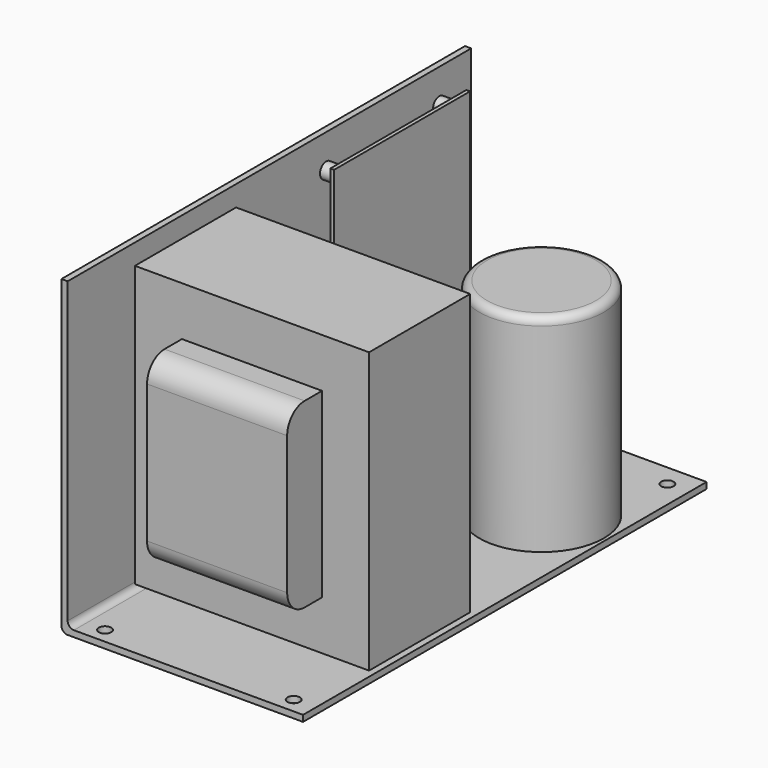
from build123d import *

# Parameters (mm, degrees)
F1_DEPTH      = 205.74
F3_D          = 5.08
F4_R          = 2.54
F5_W          = 51.562
F5_H          = 114.3
F6_DEPTH      = 95.504
F7_W          = 57.15
F7_H          = 74.168
F8_DEPTH      = 17.78
F8_DEPTH_BACK = 68.58
F9_R          = 25.4
F10_DEPTH     = 84.328
F11_R         = 3.175
F12_R         = 8.89
F13_R         = 3.175
F14_DEPTH     = 6.35
F15_W         = 69.342
F15_H         = 93.98
F16_DEPTH     = 1.524


with BuildPart() as f1:
    # F0 (on Front) → F1 (new body)
    with BuildSketch(Plane.XZ):
        Polygon((0, 127), (0, 0), (98.552, 0), (98.552, 2.54), (2.54, 2.54), (2.54, 127), align=None)
    extrude(amount=F1_DEPTH)

    # F3 (through all)
    with Locations(Plane(origin=(0, 0, 0), x_dir=(1, 0, 0), z_dir=(0, 0, -1))):
        with Locations((12.7, 199.39), (89.662, 199.39), (89.662, 8.89), (12.7, 8.89)):
            Hole(F3_D / 2)

    # F4
    f4_edges = [f1.edges().sort_by_distance(p)[0] for p in [
        (0, -102.87, 0),
        (2.54, -102.87, 2.54),
    ]]
    fillet(f4_edges, radius=F4_R)

    # F5 (on face) → F6 (join)
    with BuildSketch(Plane.YZ.offset(2.54)):
        with Locations((-145.669, 61.468)):
            Rectangle(F5_W, F5_H)
    extrude(amount=F6_DEPTH)

    # F7 (on face) → F8 (join, two sides)
    with BuildSketch(Plane.XZ.offset(171.45)) as f8_sk:
        with Locations((50.292, 61.468)):
            Rectangle(F7_W, F7_H)
    extrude(amount=F8_DEPTH)
    extrude(f8_sk.sketch, amount=-F8_DEPTH_BACK)

    # F9 (on face) → F10 (join)
    with BuildSketch(Plane.XY.offset(2.54)):
        with Locations((71.882, -50.8)):
            Circle(F9_R)
    extrude(amount=F10_DEPTH)

    # F11
    f11_edges = [f1.edges().sort_by_distance(p)[0] for p in [
        (46.482, -50.8, 86.868),
    ]]
    fillet(f11_edges, radius=F11_R)

    # F12
    f12_edges = [f1.edges().sort_by_distance(p)[0] for p in [
        (50.292, -189.23, 98.552),
        (50.292, -189.23, 24.384),
        (50.292, -102.87, 98.552),
        (50.292, -102.87, 24.384),
    ]]
    fillet(f12_edges, radius=F12_R)

    # F13 (on face) → F14 (join)
    with BuildSketch(Plane.YZ.offset(2.54)):
        with Locations((-73.914, 113.284)):
            Circle(F13_R)
        with Locations((-16.256, 113.284)):
            Circle(F13_R)
        with Locations((-16.256, 29.464)):
            Circle(F13_R)
        with Locations((-73.914, 29.464)):
            Circle(F13_R)
    extrude(amount=F14_DEPTH)

    # F15 (on face) → F16 (join)
    with BuildSketch(Plane.YZ.offset(8.89)):
        with Locations((-45.085, 71.374)):
            Rectangle(F15_W, F15_H)
    extrude(amount=F16_DEPTH)


solid = f1.part
